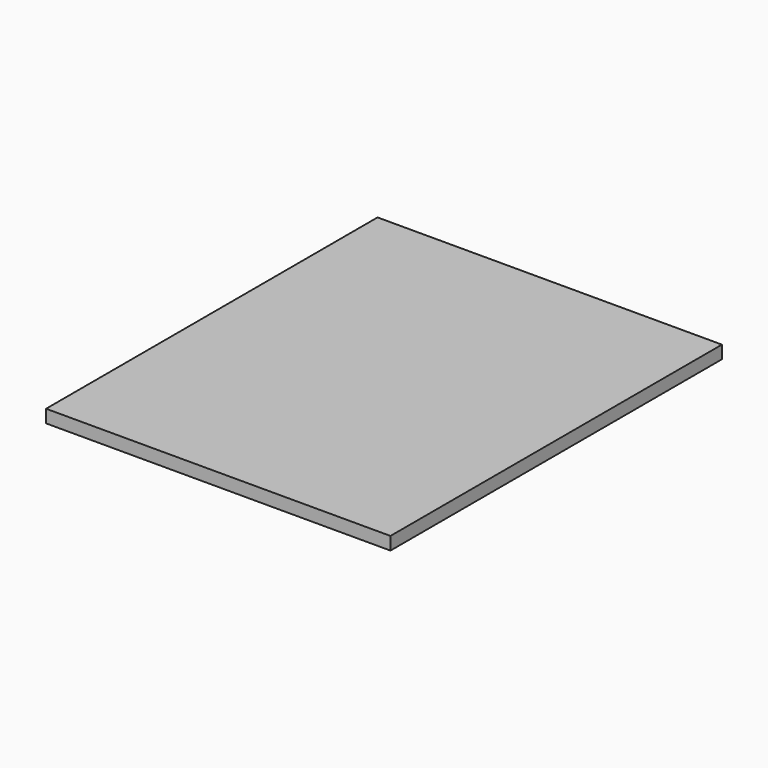
from build123d import *

# Parameters (mm, degrees)
F0_W     = 1231.9
F0_H     = 2444.75
F1_DEPTH = 76.2
F2_DEPTH = 400.05
F3_DEPTH = 400.05


with BuildPart() as f1:
    # F0 (on Top) → F1 (new body)
    with BuildSketch(Plane.XY):
        Rectangle(F0_W, F0_H)
    extrude(amount=F1_DEPTH)

    # F2 (add): a face of the model
    f2_faces = [f1.faces().sort_by_distance(p)[0] for p in [
        (-615.95, 0, 38.1),
    ]]
    extrude(f2_faces, amount=F2_DEPTH)

    # F3 (add): a face of the model
    f3_faces = [f1.faces().sort_by_distance(p)[0] for p in [
        (615.95, 0, 38.1),
    ]]
    extrude(f3_faces, amount=F3_DEPTH)


solid = f1.part
